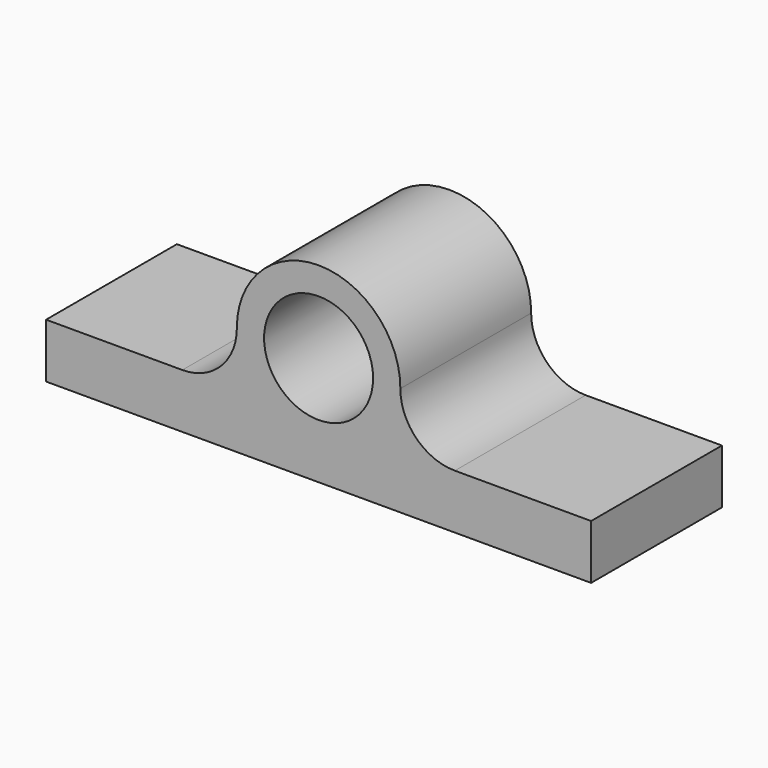
from build123d import *

# Parameters (mm, degrees)
F0_R     = 12.7
F1_DEPTH = 38.1


with BuildPart() as f1:
    # F0 (on Front) → F1 (new body)
    with BuildSketch(Plane.XZ):
        with BuildLine():
            Line((-63.5, 0), (0, 0))
            Line((0, 0), (63.5, 0))
            Line((63.5, 0), (63.5, 12.7))
            Line((63.5, 12.7), (31.75, 12.7))
            ThreePointArc((31.75, 12.7), (22.769744, 16.419744), (19.05, 25.4))
            ThreePointArc((19.05, 25.4), (0, 44.512016), (-19.05, 25.4))
            ThreePointArc((-19.05, 25.4), (-22.769744, 16.419744), (-31.75, 12.7))
            Line((-31.75, 12.7), (-63.5, 12.7))
            Line((-63.5, 12.7), (-63.5, 0))
        make_face()
        with Locations((0, 25.461916)):
            Circle(F0_R, mode=Mode.SUBTRACT)
    extrude(amount=-F1_DEPTH)


solid = f1.part
